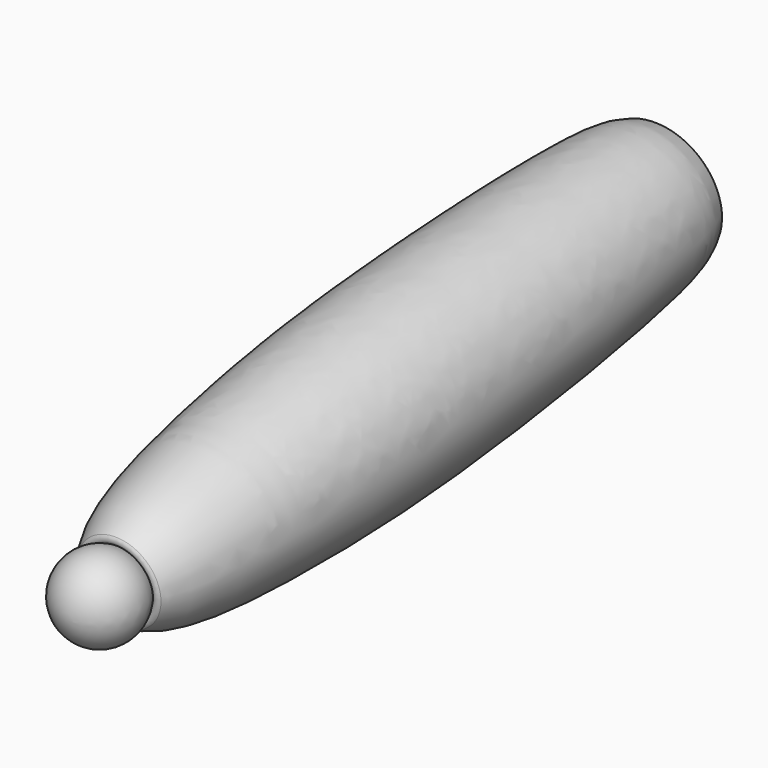
from build123d import *

# Parameters (mm, degrees)
FILLET098_R             = 3
FILLET099_R             = 3
BODY059_PLACEMENT_ANGLE = 6


with BuildPart() as part:
    # Sketch198 → Revolution102 (revolve)
    with BuildSketch(Plane.XY):
        with BuildLine():
            Line((0, 0), (0, -428.766235))
            add(Edge.make_bspline(
                [(0, 0), (37.127547, 3.058324), (47.193909, -33.616211), (53.813536, -199.691265), (50.270172, -320.959738), (33.178696, -440.435144), (0, -428.766235)],
                knots=[0, 0, 0, 0, 0.25, 0.5, 0.75, 1, 1, 1, 1], degree=3))
        make_face()
    revolve(axis=Axis((0, 0, 0), (0, 1, 0)))

    # Sketch199 → Groove096 (revolve, cut)
    with BuildSketch(Plane.XY):
        with BuildLine():
            Line((0, 35), (0, -35))
            ThreePointArc((0, -35), (35, 0), (0, 35))
        make_face()
    revolve(axis=Axis((0, 0, 0), (0, 1, 0)), mode=Mode.SUBTRACT)

    # Fillet098
    fillet098_edges = [part.edges().sort_by_distance(p)[0] for p in [
        (-33.812554, -9.039423, 0),
    ]]
    fillet(fillet098_edges, radius=FILLET098_R)

    # Sketch200 → Groove097 (revolve, cut)
    with BuildSketch(Plane.XY):
        with BuildLine():
            Line((0, -410), (0, -460))
            ThreePointArc((0, -460), (25, -435), (0, -410))
        make_face()
    revolve(axis=Axis((0, 0, 0), (0, 1, 0)), mode=Mode.SUBTRACT)

    # Fillet099
    fillet099_edges = [part.edges().sort_by_distance(p)[0] for p in [
        (-22.332538, -423.763553, 0),
    ]]
    fillet(fillet099_edges, radius=FILLET099_R)

    # Sketch200 → Revolution103 (revolve)
    with BuildSketch(Plane.XY):
        with BuildLine():
            Line((0, -410), (0, -460))
            ThreePointArc((0, -460), (25, -435), (0, -410))
        make_face()
    revolve(axis=Axis((0, 0, 0), (0, 1, 0)))


with BuildPart() as part_1:
    # Body059 placement: moved
    add(part.part.moved(Location((75, 496.57061, -20.703249))).rotate(Axis((75, 496.57061, -20.703249), (1, 0, 0)), BODY059_PLACEMENT_ANGLE))


solid = part_1.part
